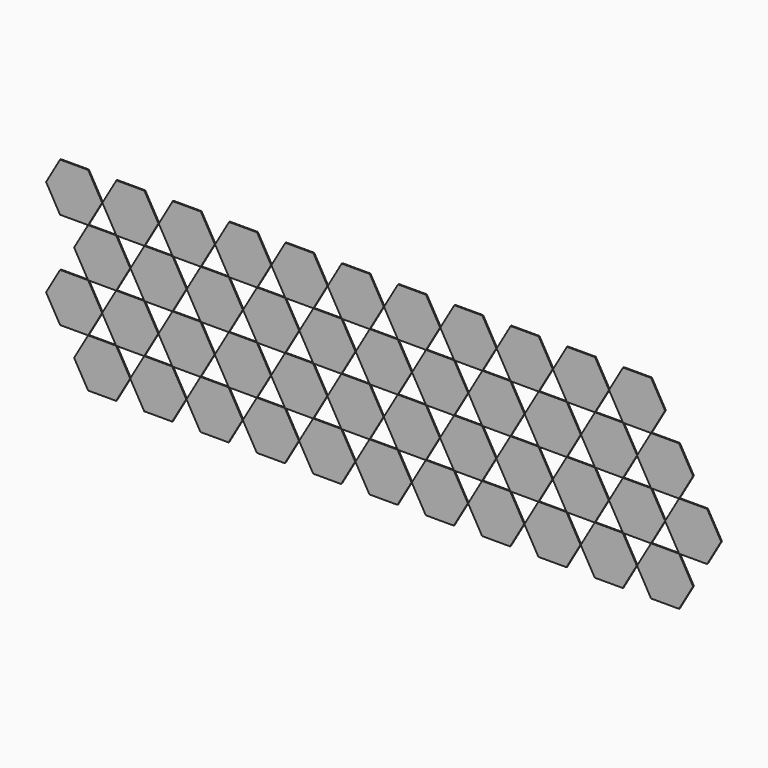
from build123d import *

# Parameters (mm, degrees)
F1_DEPTH = 1


with BuildPart() as f1:
    # F0 (on Front) → F1 (new body)
    with BuildSketch(Plane.XZ):
        Polygon((53.671682, 215), (24.804169, 215), (10.370412, 190), (24.804169, 165), (53.671682, 165), (68.105439, 190), align=None)
        Polygon((82.539196, 165), (53.671682, 165), (39.237925, 140), (53.671682, 115), (82.539196, 115), (96.972952, 140), align=None)
        Polygon((82.539196, 165), (53.671682, 165), (39.237925, 140), (53.671682, 115), (82.539196, 115), (96.972952, 140), align=None)
        Polygon((68.105439, 90), (53.671682, 115), (24.804169, 115), (10.370412, 90), (24.804169, 65), (53.671682, 65), align=None)
        Polygon((96.972952, 40), (82.539196, 65), (53.671682, 65), (39.237925, 40), (53.671682, 15), (82.539196, 15), align=None)
        Polygon((96.972952, 40), (82.539196, 65), (53.671682, 65), (39.237925, 40), (53.671682, 15), (82.539196, 15), align=None)
        Polygon((96.972952, 40), (82.539196, 65), (53.671682, 65), (39.237925, 40), (53.671682, 15), (82.539196, 15), align=None)
        Polygon((111.671682, 215), (82.804169, 215), (68.370412, 190), (82.804169, 165), (111.671682, 165), (126.105439, 190), align=None)
        Polygon((169.671682, 215), (140.804169, 215), (126.370412, 190), (140.804169, 165), (169.671682, 165), (184.105439, 190), align=None)
        Polygon((227.671682, 215), (198.804169, 215), (184.370412, 190), (198.804169, 165), (227.671682, 165), (242.105439, 190), align=None)
        Polygon((285.671682, 215), (256.804169, 215), (242.370412, 190), (256.804169, 165), (285.671682, 165), (300.105439, 190), align=None)
        Polygon((343.671682, 215), (314.804169, 215), (300.370412, 190), (314.804169, 165), (343.671682, 165), (358.105439, 190), align=None)
        Polygon((140.539196, 165), (111.671682, 165), (97.237925, 140), (111.671682, 115), (140.539196, 115), (154.972952, 140), align=None)
        Polygon((111.406709, 115), (82.539196, 115), (68.105439, 90), (82.539196, 65), (111.406709, 65), (125.840466, 90), align=None)
        Polygon((140.274223, 65), (111.406709, 65), (96.972952, 40), (111.406709, 15), (140.274223, 15), (154.707979, 40), align=None)
        Polygon((140.274223, 65), (111.406709, 65), (96.972952, 40), (111.406709, 15), (140.274223, 15), (154.707979, 40), align=None)
        Polygon((140.274223, 65), (111.406709, 65), (96.972952, 40), (111.406709, 15), (140.274223, 15), (154.707979, 40), align=None)
        Polygon((140.539196, 165), (111.671682, 165), (97.237925, 140), (111.671682, 115), (140.539196, 115), (154.972952, 140), align=None)
        Polygon((198.539196, 165), (169.671682, 165), (155.237925, 140), (169.671682, 115), (198.539196, 115), (212.972952, 140), align=None)
        Polygon((198.539196, 165), (169.671682, 165), (155.237925, 140), (169.671682, 115), (198.539196, 115), (212.972952, 140), align=None)
        Polygon((256.539196, 165), (227.671682, 165), (213.237925, 140), (227.671682, 115), (256.539196, 115), (270.972952, 140), align=None)
        Polygon((256.539196, 165), (227.671682, 165), (213.237925, 140), (227.671682, 115), (256.539196, 115), (270.972952, 140), align=None)
        Polygon((314.539196, 165), (285.671682, 165), (271.237925, 140), (285.671682, 115), (314.539196, 115), (328.972952, 140), align=None)
        Polygon((314.539196, 165), (285.671682, 165), (271.237925, 140), (285.671682, 115), (314.539196, 115), (328.972952, 140), align=None)
        Polygon((372.539196, 165), (343.671682, 165), (329.237925, 140), (343.671682, 115), (372.539196, 115), (386.972952, 140), align=None)
        Polygon((372.539196, 165), (343.671682, 165), (329.237925, 140), (343.671682, 115), (372.539196, 115), (386.972952, 140), align=None)
        Polygon((140.539196, 115), (126.105439, 90), (140.539196, 65), (169.406709, 65), (183.840466, 90), (169.406709, 115), align=None)
        Polygon((198.539196, 115), (184.105439, 90), (198.539196, 65), (227.406709, 65), (241.840466, 90), (227.406709, 115), align=None)
        Polygon((256.539196, 115), (242.105439, 90), (256.539196, 65), (285.406709, 65), (299.840466, 90), (285.406709, 115), align=None)
        Polygon((314.539196, 115), (300.105439, 90), (314.539196, 65), (343.406709, 65), (357.840466, 90), (343.406709, 115), align=None)
        Polygon((169.406709, 65), (154.972952, 40), (169.406709, 15), (198.274223, 15), (212.707979, 40), (198.274223, 65), align=None)
        Polygon((169.406709, 65), (154.972952, 40), (169.406709, 15), (198.274223, 15), (212.707979, 40), (198.274223, 65), align=None)
        Polygon((169.406709, 65), (154.972952, 40), (169.406709, 15), (198.274223, 15), (212.707979, 40), (198.274223, 65), align=None)
        Polygon((227.406709, 65), (212.972952, 40), (227.406709, 15), (256.274223, 15), (270.707979, 40), (256.274223, 65), align=None)
        Polygon((227.406709, 65), (212.972952, 40), (227.406709, 15), (256.274223, 15), (270.707979, 40), (256.274223, 65), align=None)
        Polygon((227.406709, 65), (212.972952, 40), (227.406709, 15), (256.274223, 15), (270.707979, 40), (256.274223, 65), align=None)
        Polygon((285.406709, 65), (270.972952, 40), (285.406709, 15), (314.274223, 15), (328.707979, 40), (314.274223, 65), align=None)
        Polygon((285.406709, 65), (270.972952, 40), (285.406709, 15), (314.274223, 15), (328.707979, 40), (314.274223, 65), align=None)
        Polygon((285.406709, 65), (270.972952, 40), (285.406709, 15), (314.274223, 15), (328.707979, 40), (314.274223, 65), align=None)
        Polygon((343.406709, 65), (328.972952, 40), (343.406709, 15), (372.274223, 15), (386.707979, 40), (372.274223, 65), align=None)
        Polygon((343.406709, 65), (328.972952, 40), (343.406709, 15), (372.274223, 15), (386.707979, 40), (372.274223, 65), align=None)
        Polygon((343.406709, 65), (328.972952, 40), (343.406709, 15), (372.274223, 15), (386.707979, 40), (372.274223, 65), align=None)
        Polygon((416.105439, 190), (401.671682, 215), (372.804169, 215), (358.370412, 190), (372.804169, 165), (401.671682, 165), align=None)
        Polygon((474.105439, 190), (459.671682, 215), (430.804169, 215), (416.370412, 190), (430.804169, 165), (459.671682, 165), align=None)
        Polygon((532.105439, 190), (517.671682, 215), (488.804169, 215), (474.370412, 190), (488.804169, 165), (517.671682, 165), align=None)
        Polygon((430.539196, 165), (401.671682, 165), (387.237925, 140), (401.671682, 115), (430.539196, 115), (444.972952, 140), align=None)
        Polygon((430.539196, 165), (401.671682, 165), (387.237925, 140), (401.671682, 115), (430.539196, 115), (444.972952, 140), align=None)
        Polygon((488.539196, 165), (459.671682, 165), (445.237925, 140), (459.671682, 115), (488.539196, 115), (502.972952, 140), align=None)
        Polygon((488.539196, 165), (459.671682, 165), (445.237925, 140), (459.671682, 115), (488.539196, 115), (502.972952, 140), align=None)
        Polygon((372.539196, 115), (358.105439, 90), (372.539196, 65), (401.406709, 65), (415.840466, 90), (401.406709, 115), align=None)
        Polygon((430.539196, 115), (416.105439, 90), (430.539196, 65), (459.406709, 65), (473.840466, 90), (459.406709, 115), align=None)
        Polygon((488.539196, 115), (474.105439, 90), (488.539196, 65), (517.406709, 65), (531.840466, 90), (517.406709, 115), align=None)
        Polygon((590.105439, 190), (575.671682, 215), (546.804169, 215), (532.370412, 190), (546.804169, 165), (575.671682, 165), align=None)
        Polygon((647.840466, 190), (633.406709, 215), (604.539196, 215), (590.105439, 190), (604.539196, 165), (633.406709, 165), align=None)
        Polygon((546.539196, 165), (517.671682, 165), (503.237925, 140), (517.671682, 115), (546.539196, 115), (560.972952, 140), align=None)
        Polygon((546.539196, 165), (517.671682, 165), (503.237925, 140), (517.671682, 115), (546.539196, 115), (560.972952, 140), align=None)
        Polygon((604.539196, 165), (575.671682, 165), (561.237925, 140), (575.671682, 115), (604.539196, 115), (618.972952, 140), align=None)
        Polygon((662.274223, 165), (633.406709, 165), (618.972952, 140), (633.406709, 115), (662.274223, 115), (676.707979, 140), align=None)
        Polygon((546.539196, 115), (532.105439, 90), (546.539196, 65), (575.406709, 65), (589.840466, 90), (575.406709, 115), align=None)
        Polygon((633.406709, 115), (604.539196, 115), (590.105439, 90), (604.539196, 65), (633.406709, 65), (647.840466, 90), align=None)
        Polygon((691.141736, 115), (662.274223, 115), (647.840466, 90), (662.274223, 65), (691.141736, 65), (705.575493, 90), align=None)
        Polygon((691.141736, 115), (662.274223, 115), (647.840466, 90), (662.274223, 65), (691.141736, 65), (705.575493, 90), align=None)
        Polygon((401.406709, 65), (386.972952, 40), (401.406709, 15), (430.274223, 15), (444.707979, 40), (430.274223, 65), align=None)
        Polygon((401.406709, 65), (386.972952, 40), (401.406709, 15), (430.274223, 15), (444.707979, 40), (430.274223, 65), align=None)
        Polygon((401.406709, 65), (386.972952, 40), (401.406709, 15), (430.274223, 15), (444.707979, 40), (430.274223, 65), align=None)
        Polygon((459.406709, 65), (444.972952, 40), (459.406709, 15), (488.274223, 15), (502.707979, 40), (488.274223, 65), align=None)
        Polygon((459.406709, 65), (444.972952, 40), (459.406709, 15), (488.274223, 15), (502.707979, 40), (488.274223, 65), align=None)
        Polygon((459.406709, 65), (444.972952, 40), (459.406709, 15), (488.274223, 15), (502.707979, 40), (488.274223, 65), align=None)
        Polygon((517.406709, 65), (502.972952, 40), (517.406709, 15), (546.274223, 15), (560.707979, 40), (546.274223, 65), align=None)
        Polygon((517.406709, 65), (502.972952, 40), (517.406709, 15), (546.274223, 15), (560.707979, 40), (546.274223, 65), align=None)
        Polygon((517.406709, 65), (502.972952, 40), (517.406709, 15), (546.274223, 15), (560.707979, 40), (546.274223, 65), align=None)
        Polygon((575.406709, 65), (560.972952, 40), (575.406709, 15), (604.274223, 15), (618.707979, 40), (604.274223, 65), align=None)
        Polygon((575.406709, 65), (560.972952, 40), (575.406709, 15), (604.274223, 15), (618.707979, 40), (604.274223, 65), align=None)
        Polygon((662.274223, 65), (633.406709, 65), (618.972952, 40), (633.406709, 15), (662.274223, 15), (676.707979, 40), align=None)
        Polygon((662.274223, 65), (633.406709, 65), (618.972952, 40), (633.406709, 15), (662.274223, 15), (676.707979, 40), align=None)
    extrude(amount=F1_DEPTH)


solid = f1.part
